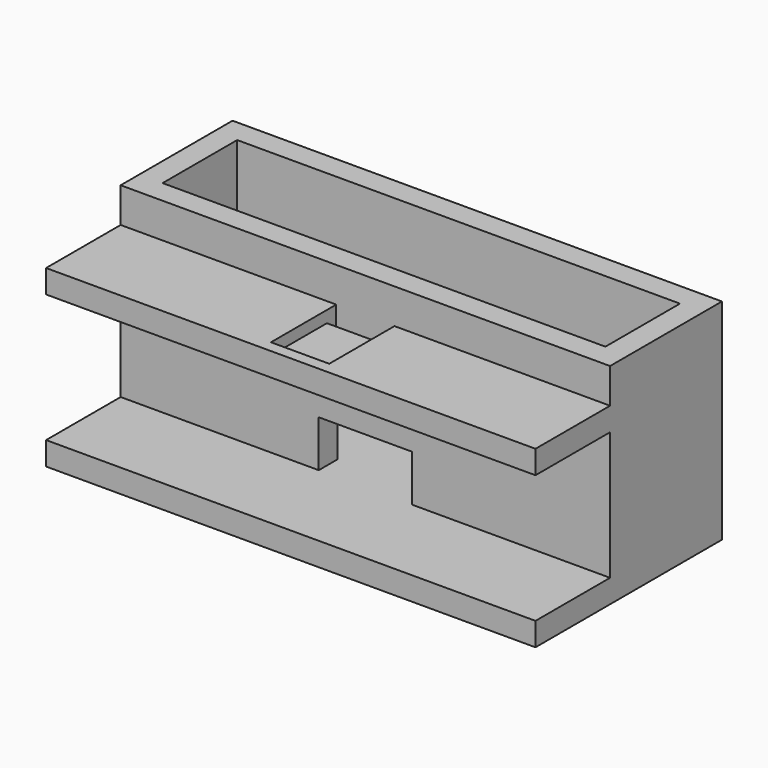
from build123d import *

# Parameters (mm, degrees)
F0_W      = 266.7
F0_H      = 127
F1_DEPTH  = 12.7
F2_W      = 241.3
F2_H      = 50.8
F3_DEPTH  = 101.6
F4_W      = 266.7
F4_H      = 12.7
F5_DEPTH  = 50.8
F6_W      = 241.3
F6_H      = 19.05
F7_DEPTH  = 63.5
F8_W      = 50.8
F8_H      = 25.4
F9_DEPTH  = 63.5
F10_W     = 31.75
F10_H     = 44.45
F11_DEPTH = 6.35
F12_W     = 241.3
F12_H     = 12.7
F13_DEPTH = 63.5
F14_W     = 31.75
F14_H     = 6.35
F15_DEPTH = 6.35
F16_W     = 25.4
F16_H     = 12.7
F17_DEPTH = 12.7


with BuildPart() as f1:
    # F0 (on Top) → F1 (new body)
    with BuildSketch(Plane.XY):
        with Locations((133.35, 63.5)):
            Rectangle(F0_W, F0_H)
    extrude(amount=F1_DEPTH)

    # F2 (on face) → F3 (join)
    with BuildSketch(Plane.XY.offset(12.7)):
        Polygon((0, 63.5), (0, 50.8), (266.7, 50.8), (266.7, 63.5), (266.7, 114.3), (266.7, 127), (0, 127), (0, 114.3), align=None)
        with Locations((133.35, 88.9)):
            Rectangle(F2_W, F2_H, mode=Mode.SUBTRACT)
    extrude(amount=F3_DEPTH)

    # F4 (on face) → F5 (join, through all)
    with BuildSketch(Plane.XZ.offset(-50.8)):
        with Locations((133.35, 88.9)):
            Rectangle(F4_W, F4_H)
    extrude(amount=F5_DEPTH)

    # F6 (on face) → F7 (cut, through all)
    with BuildSketch(Plane(origin=(0, 127, 0), x_dir=(-1, 0, 0), z_dir=(0, 1, 0))):
        with Locations((-133.35, 22.225)):
            Rectangle(F6_W, F6_H)
    extrude(amount=-F7_DEPTH, mode=Mode.SUBTRACT)

    # F8 (on face) → F9 (cut, through all)
    with BuildSketch(Plane.XZ.offset(-50.8)):
        with Locations((133.35, 25.4)):
            Rectangle(F8_W, F8_H)
    extrude(amount=-F9_DEPTH, mode=Mode.SUBTRACT)

    # F10 (on face) → F11 (cut)
    with BuildSketch(Plane.XY.offset(95.25)):
        with Locations((133.35, 28.575)):
            Rectangle(F10_W, F10_H)
    extrude(amount=-F11_DEPTH, mode=Mode.SUBTRACT)

    # F12 (on face) → F13 (join, through all)
    with BuildSketch(Plane(origin=(0, 127, 0), x_dir=(-1, 0, 0), z_dir=(0, 1, 0))):
        with Locations((-133.35, 38.1)):
            Rectangle(F12_W, F12_H)
    extrude(amount=-F13_DEPTH)

    # F14 (on face) → F15 (cut, through all)
    with BuildSketch(Plane.XY.offset(88.9)):
        with Locations((133.35, 47.625)):
            Rectangle(F14_W, F14_H)
    extrude(amount=-F15_DEPTH, mode=Mode.SUBTRACT)

    # F16 (on face) → F17 (cut, through all)
    with BuildSketch(Plane.XY.offset(44.45)):
        with Locations((215.9, 69.85)):
            Rectangle(F16_W, F16_H)
        with Locations((50.8, 69.85)):
            Rectangle(F16_W, F16_H)
        with Locations((133.35, 69.85)):
            Rectangle(F16_W, F16_H)
    extrude(amount=-F17_DEPTH, mode=Mode.SUBTRACT)


solid = f1.part
